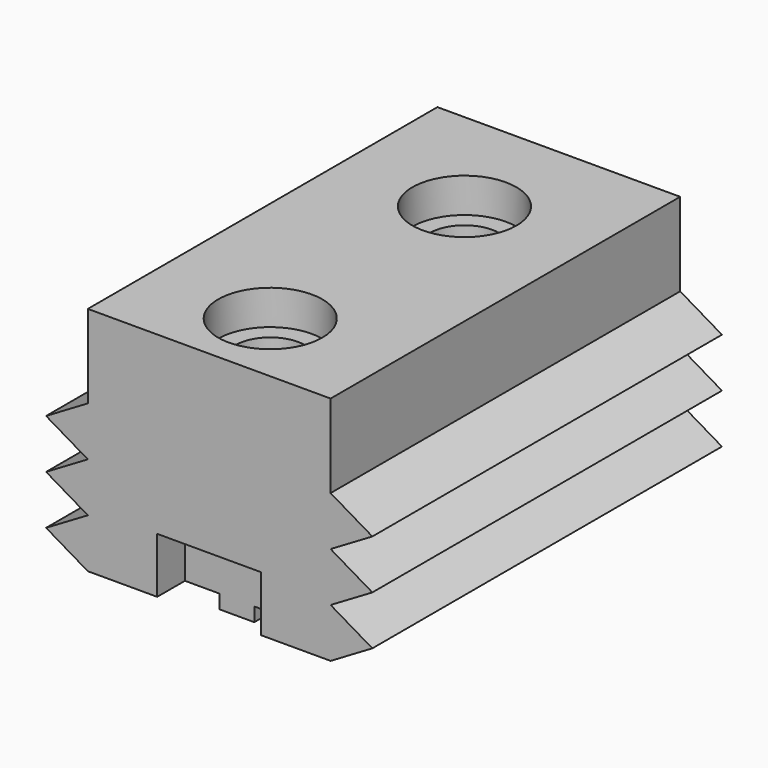
from build123d import *

# Parameters (mm, degrees)
F0_W     = 35
F0_H     = 63
F1_DEPTH = 35.3
F2_W     = 15
F2_H     = 2
F3_DEPTH = 63.001
F4_DEPTH = 63
F5_R     = 5
F6_DEPTH = 23
F5_R_2   = 7.5
F7_DEPTH = 5
F9_DEPTH = 5


with BuildPart() as f1:
    # F0 (on Top) → F1 (new body)
    with BuildSketch(Plane.XY):
        with Locations((-0.486111, -31.5)):
            Rectangle(F0_W, F0_H)
    extrude(amount=-F1_DEPTH)

    # F2 (on face) → F3 (cut, through all)
    with BuildSketch(Plane.XZ.offset(63)):
        with Locations((9.513889, -34.3)):
            Rectangle(F2_W, F2_H)
        with Locations((-10.486111, -34.3)):
            Rectangle(F2_W, F2_H)
    extrude(amount=-F3_DEPTH, mode=Mode.SUBTRACT)

    # F2 (on face) → F4 (join)
    with BuildSketch(Plane.XZ.offset(63)):
        Polygon((-17.986111, -19.1), (-17.986111, -12), (-24.006156, -15.55), align=None)
        Polygon((-17.986111, -26.2), (-17.986111, -19.1), (-24.006156, -22.65), align=None)
        Polygon((-17.986111, -33.3), (-17.986111, -26.2), (-24.006156, -29.75), align=None)
        Polygon((23.033934, -29.75), (17.013889, -26.2), (17.013889, -33.3), align=None)
        Polygon((23.033934, -15.55), (17.013889, -12), (17.013889, -19.1), align=None)
        Polygon((23.033934, -22.65), (17.013889, -19.1), (17.013889, -26.2), align=None)
    extrude(amount=-F4_DEPTH)

    # F5 (on face) → F6 (cut)
    with BuildSketch(Plane.XY):
        with Locations((-0.486111, -17)):
            Circle(F5_R)
        with Locations((-0.486111, -52)):
            Circle(F5_R)
    extrude(amount=-F6_DEPTH, mode=Mode.SUBTRACT)

    # F5 (on face) → F7 (cut)
    with BuildSketch(Plane.XY):
        with Locations((-0.486111, -17)):
            Circle(F5_R_2)
        with Locations((-0.486111, -17)):
            Circle(F5_R, mode=Mode.SUBTRACT)
        with Locations((-0.486111, -52)):
            Circle(F5_R_2)
        with Locations((-0.486111, -52)):
            Circle(F5_R, mode=Mode.SUBTRACT)
    extrude(amount=-F7_DEPTH, mode=Mode.SUBTRACT)

    # F8 (on face) → F9 (cut)
    with BuildSketch(Plane.XZ.offset(63)):
        Polygon((-0.486111, -25.3), (-7.986111, -25.3), (-7.986111, -35.504304), (7.013889, -35.504304), (7.013889, -25.3), align=None)
    extrude(amount=-F9_DEPTH, mode=Mode.SUBTRACT)


solid = f1.part
